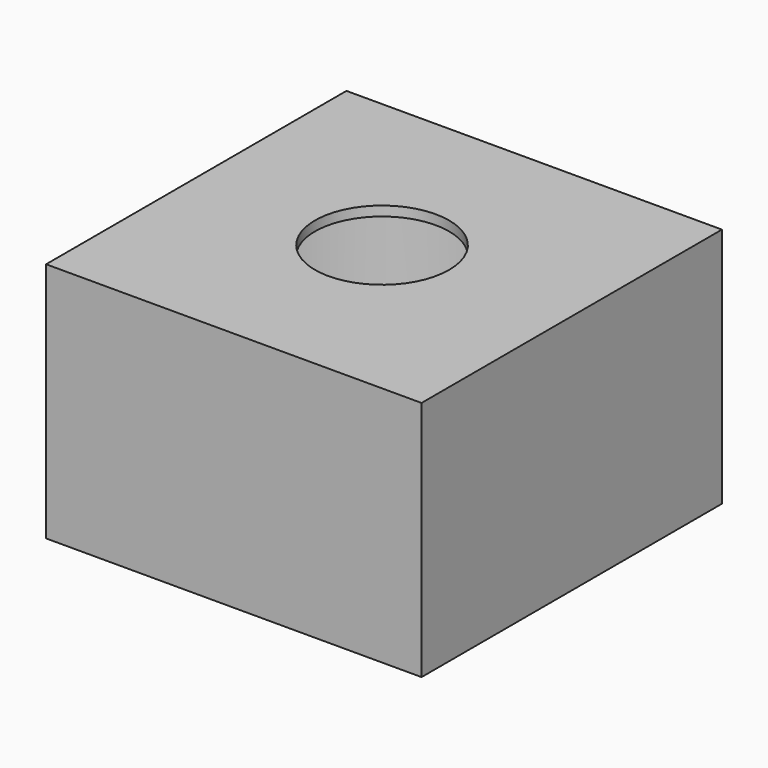
from build123d import *

# Parameters (mm, degrees)
F0_W     = 7
F0_H     = 7
F1_DEPTH = 4.5
F3_R     = 1.25
F4_DEPTH = 25
F3_R_2   = 3.25
F5_DEPTH = 4.32


with BuildPart() as f1:
    # F0 (on Top) → F1 (new body)
    with BuildSketch(Plane.XY):
        with Locations((-13.872448, -2.127344)):
            Rectangle(F0_W, F0_H)
    extrude(amount=F1_DEPTH)

    # F3 (on face) → F4 (cut)
    with BuildSketch(Plane(origin=(0, 0, 0), x_dir=(1, 0, 0), z_dir=(0, 0, -1))):
        with Locations((-13.92932, 2.101687)):
            Circle(F3_R)
    extrude(amount=-F4_DEPTH, mode=Mode.SUBTRACT)

    # F3 (on face) → F5 (cut)
    with BuildSketch(Plane(origin=(0, 0, 0), x_dir=(1, 0, 0), z_dir=(0, 0, -1))):
        with Locations((-13.92932, 2.101687)):
            Circle(F3_R_2)
        with Locations((-13.92932, 2.101687)):
            Circle(F3_R, mode=Mode.SUBTRACT)
    extrude(amount=-F5_DEPTH, mode=Mode.SUBTRACT)


solid = f1.part
